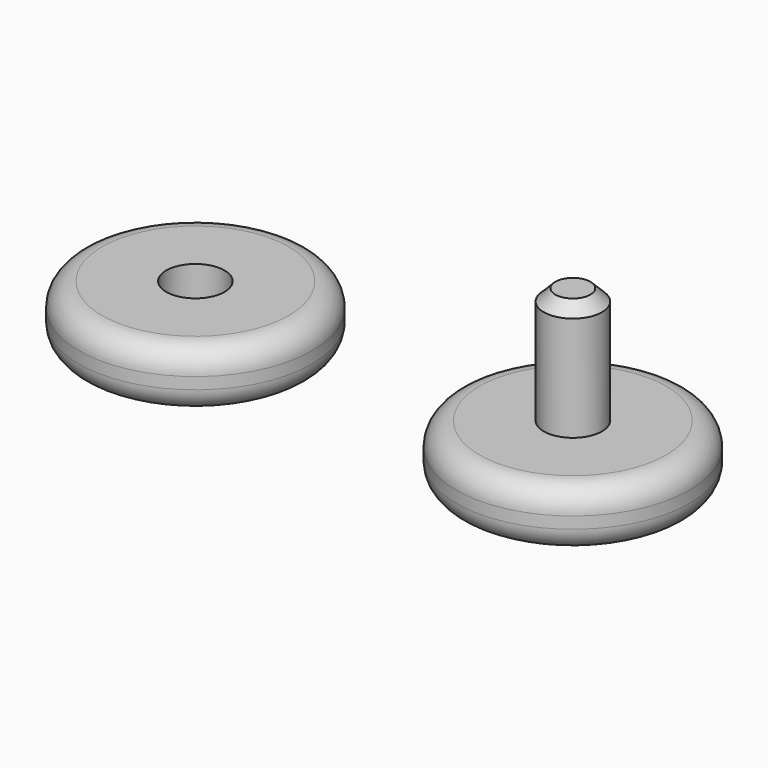
from build123d import *

# Parameters (mm, degrees)
F0_R     = 10
F1_DEPTH = 5
F2_R     = 2.5
F3_DEPTH = 10
F4_SIZE  = 1
F5_R     = 2
F0_R_2   = 2.5
F6_DEPTH = 5
F7_R     = 2


with BuildPart() as f1:
    # F0 (on Top) → F1 (new body)
    with BuildSketch(Plane.XY):
        Circle(F0_R)
    extrude(amount=F1_DEPTH)

    # F2 (on face) → F3 (join)
    with BuildSketch(Plane.XY.offset(5)):
        Circle(F2_R)
    extrude(amount=F3_DEPTH)

    # F4
    f4_edges = [f1.edges().sort_by_distance(p)[0] for p in [
        (-2.5, 0, 15),
    ]]
    chamfer(f4_edges, length=F4_SIZE)

    # F5
    f5_edges = [f1.edges().sort_by_distance(p)[0] for p in [
        (-10, 0, 5),
        (-10, 0, 0),
    ]]
    fillet(f5_edges, radius=F5_R)

    # F0 (on Top) → F6 (join)
    with BuildSketch(Plane.XY):
        Circle(F0_R)
        with Locations((-32.377053, 0)):
            Circle(F0_R)
        with Locations((-32.377053, 0)):
            Circle(F0_R_2, mode=Mode.SUBTRACT)
    extrude(amount=F6_DEPTH)

    # F7
    f7_edges = [f1.edges().sort_by_distance(p)[0] for p in [
        (-42.377053, 0, 5),
        (-42.377053, 0, 0),
        (-10, 0, 5),
        (-10, 0, 0),
    ]]
    fillet(f7_edges, radius=F7_R)


solid = f1.part
